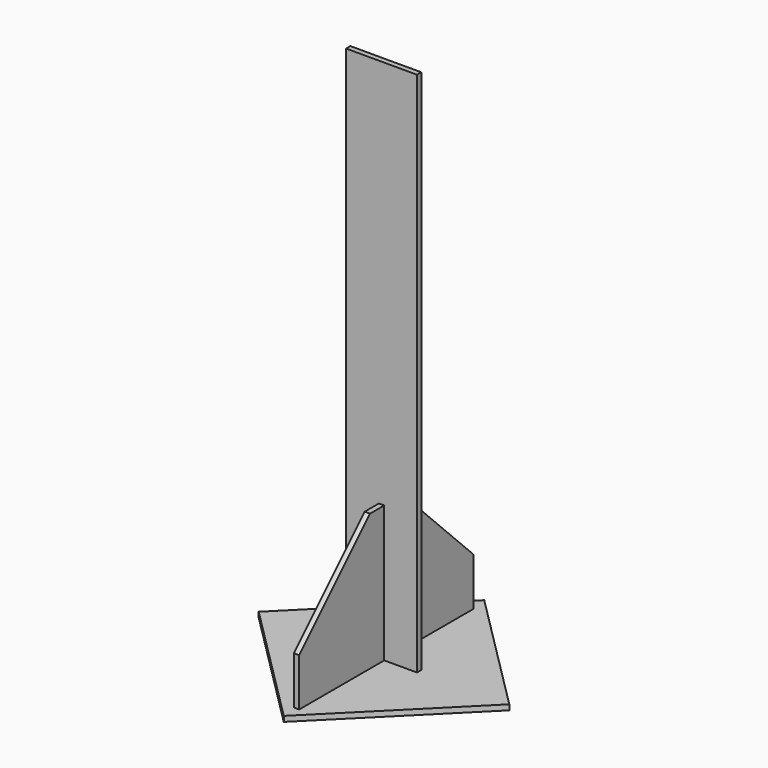
from build123d import *

# Parameters (mm, degrees)
BOX001_W               = 100
BOX001_H               = 100
BOX001_DEPTH           = 3
BOX001_PLACEMENT_ANGLE = 45
BOX002_W               = 40
BOX002_H               = 3
BOX002_DEPTH           = 300
BOX003_W               = 60
BOX003_H               = 3
BOX003_DEPTH           = 80
BOX003_PLACEMENT_ANGLE = 90
CHAMFER_SIZE           = 50
BOX_W                  = 60
BOX_H                  = 3
BOX_DEPTH              = 80
BOX_PLACEMENT_ANGLE    = 90
CHAMFER001_SIZE        = 50


with BuildPart() as base:
    # Box001 → Box001 (new body)
    with BuildSketch(Plane.XY):
        with Locations((50, 50)):
            Rectangle(BOX001_W, BOX001_H)
    extrude(amount=BOX001_DEPTH)


with BuildPart() as base_1:
    # Box001 placement: moved
    add(base.part.rotate(Axis((0, 0, 0), (0, 0, 1)), BOX001_PLACEMENT_ANGLE))


with BuildPart() as obj1:
    # Box002 → Box002 (new body)
    with BuildSketch(Plane(origin=(-20, 69, 0), x_dir=(1, 0, 0), z_dir=(0, 0, 1))):
        with Locations((20, 1.5)):
            Rectangle(BOX002_W, BOX002_H)
    extrude(amount=BOX002_DEPTH)


with BuildPart() as chamfer_body:
    # Box003 → Box003 (new body)
    with BuildSketch(Plane.XY):
        with Locations((30, 1.5)):
            Rectangle(BOX003_W, BOX003_H)
    extrude(amount=BOX003_DEPTH)


with BuildPart() as chamfer_body_1:
    # Box003 placement: moved
    add(chamfer_body.part.moved(Location((1.5, 9, 0))).rotate(Axis((1.5, 9, 0), (0, 0, 1)), BOX003_PLACEMENT_ANGLE))

    # Chamfer
    chamfer_edges = [chamfer_body_1.edges().sort_by_distance(p)[0] for p in [
        (0, 9, 80),
    ]]
    chamfer(chamfer_edges, length=CHAMFER_SIZE)


with BuildPart() as chamfer001:
    # Box → Box (new body)
    with BuildSketch(Plane.XY):
        with Locations((30, 1.5)):
            Rectangle(BOX_W, BOX_H)
    extrude(amount=BOX_DEPTH)


with BuildPart() as chamfer001_1:
    # Box placement: moved
    add(chamfer001.part.moved(Location((1.5, 72, 0))).rotate(Axis((1.5, 72, 0), (0, 0, 1)), BOX_PLACEMENT_ANGLE))

    # Chamfer001
    chamfer001_edges = [chamfer001_1.edges().sort_by_distance(p)[0] for p in [
        (0, 132, 80),
    ]]
    chamfer(chamfer001_edges, length=CHAMFER001_SIZE)


solid = Compound([base_1.part, obj1.part, chamfer_body_1.part, chamfer001_1.part])
